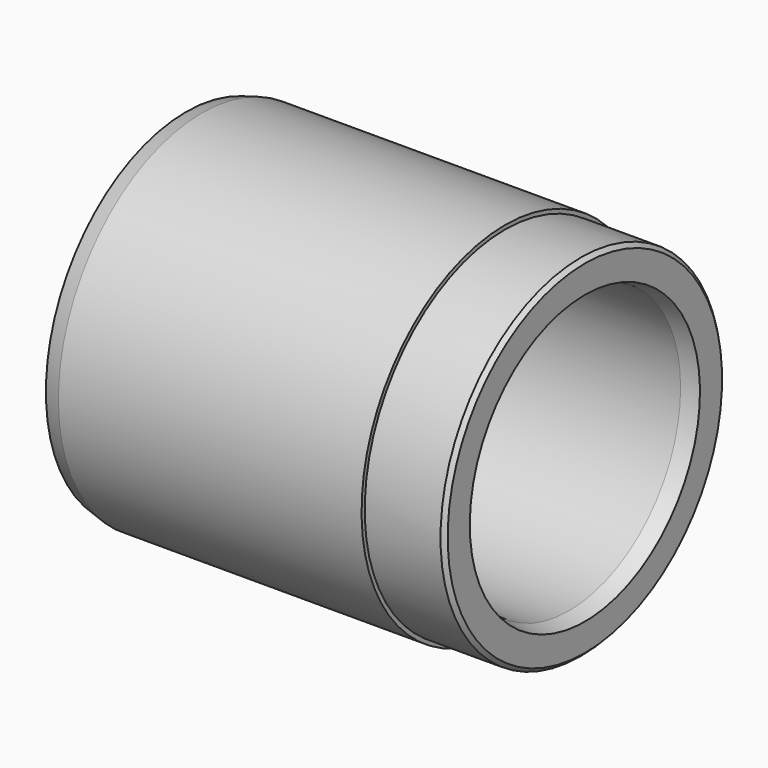
from build123d import *

# Parameters (mm, degrees)
F2_SIZE2   = 0.5358983849
F2_SIZE    = 2
F2_2_SIZE2 = 0.5358983849
F2_2_SIZE  = 2
F3_SIZE    = 0.5


with BuildPart() as f1:
    # F0 (on Front) → F1 (revolve)
    with BuildSketch(Plane.XZ):
        Polygon((0, 22.5), (0, 17.5), (50, 17.5), (50, 22), (40, 22), (40, 22.5), align=None)
    revolve(axis=Axis((25, 0, 0), (1, 0, 0)))

    # F2
    f2_edges = [f1.edges().sort_by_distance(p)[0] for p in [
        (0, 0, -17.5),
        (50, 0, -17.5),
    ]]
    f2_side = f1.faces().sort_by_distance((25, 0, -17.5))[0]
    chamfer(f2_edges, length=F2_SIZE, length2=F2_SIZE2, reference=f2_side)

    # F2#2
    f2_2_edges = [f1.edges().sort_by_distance(p)[0] for p in [
        (0, 0, -22.5),
    ]]
    f2_2_side = f1.faces().sort_by_distance((20, 0, -22.5))[0]
    chamfer(f2_2_edges, length=F2_2_SIZE, length2=F2_2_SIZE2, reference=f2_2_side)

    # F3
    f3_edges = [f1.edges().sort_by_distance(p)[0] for p in [
        (50, 0, -22),
    ]]
    chamfer(f3_edges, length=F3_SIZE)


solid = f1.part
